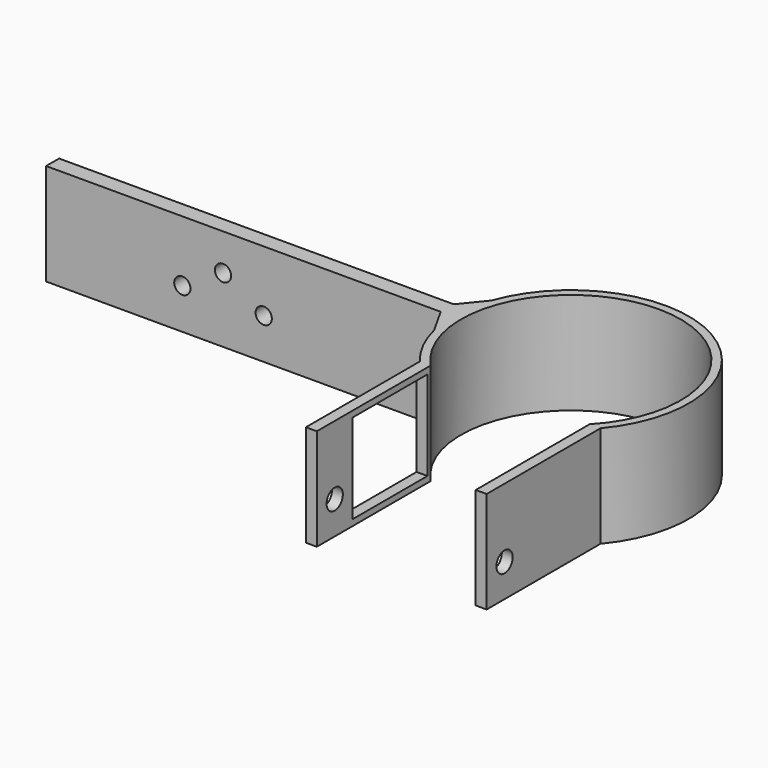
from build123d import *

# Parameters (mm, degrees)
PAD015_DEPTH    = 25
SKETCH016_R     = 27
POCKET017_DEPTH = 25
SKETCH030_W     = 44.4306459714
SKETCH030_H     = 35
PAD022_DEPTH    = 25
SKETCH031_W     = 39.0651033717
SKETCH031_H     = 35
POCKET021_DEPTH = 36
SKETCH032_W     = 23
SKETCH032_H     = 22
POCKET022_DEPTH = 36
SKETCH041_R     = 2.5
POCKET024_DEPTH = 52.1614566717
SKETCH044_W     = 100
SKETCH044_H     = 4
PAD025_DEPTH    = 25
SKETCH066_R     = 2
POCKET030_DEPTH = 4


with BuildPart() as part:
    # Sketch015 → Pad015 (new body)
    with BuildSketch(Plane.XY):
        with BuildLine():
            ThreePointArc((22.2152888505, -18.6408406809), (0, 29), (-22.2152888505, -18.6408406809))
            Line((-22.2152888505, -18.6408406809), (22.2152888505, -18.6408406809))
        make_face()
    extrude(amount=PAD015_DEPTH)

    # Sketch016 → Pocket017 (cut)
    with BuildSketch(Plane.XY):
        Circle(SKETCH016_R)
    extrude(amount=POCKET017_DEPTH, mode=Mode.SUBTRACT)

    # Sketch030 → Pad022 (join)
    with BuildSketch(Plane.XY):
        with Locations((0, -36.1408)):
            Rectangle(SKETCH030_W, SKETCH030_H)
    extrude(amount=PAD022_DEPTH)

    # Sketch031 → Pocket021 (cut)
    with BuildSketch(Plane.XY):
        with Locations((0, -36.1408)):
            Rectangle(SKETCH031_W, SKETCH031_H)
    extrude(amount=POCKET021_DEPTH, mode=Mode.SUBTRACT)

    # Sketch032 → Pocket022 (cut)
    with BuildSketch(Plane.YZ):
        with Locations((-31.1408, 12.5)):
            Rectangle(SKETCH032_W, SKETCH032_H)
    extrude(amount=-POCKET022_DEPTH, mode=Mode.SUBTRACT)

    # Sketch041 → Pocket024 (cut, through all)
    with BuildSketch(Plane(origin=(-23.1604566717, 0, 0), x_dir=(0, -1, 0), z_dir=(-1, 0, 0))):
        with Locations((48.14, 8.085693)):
            Circle(SKETCH041_R)
    extrude(amount=-POCKET024_DEPTH, mode=Mode.SUBTRACT)

    # Sketch044 → Pad025 (join)
    with BuildSketch(Plane.XY):
        with Locations((-79, 2)):
            Rectangle(SKETCH044_W, SKETCH044_H)
        Polygon((-32, 4), (-27.017239, 10.090035), (-27.680943, -7.676853), (-32, 0), align=None)
    extrude(amount=PAD025_DEPTH)

    # Sketch066 (on Face20 of Pad025) → Pocket030 (cut)
    with BuildSketch(Plane.XZ):
        with Locations((-95.5, 10)):
            Circle(SKETCH066_R)
        with Locations((-85.5, 16)):
            Circle(SKETCH066_R)
        with Locations((-75.5, 10)):
            Circle(SKETCH066_R)
    extrude(amount=-POCKET030_DEPTH, mode=Mode.SUBTRACT)


solid = part.part
